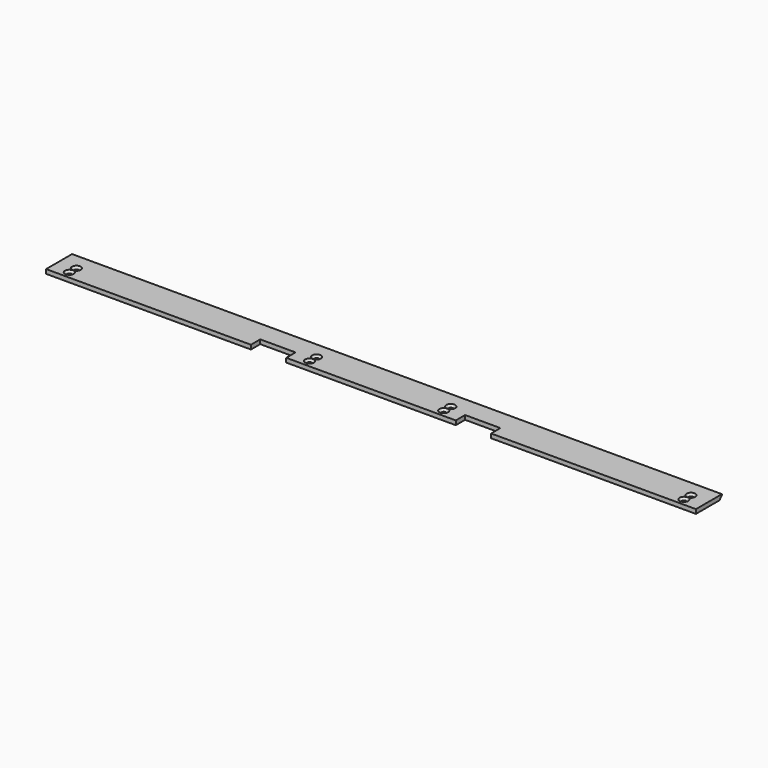
from build123d import *

# Parameters (mm, degrees)
F0_W           = 1840
F0_H           = 92
F1_DEPTH       = 6
F2_W           = 100
F2_H           = 33
F3_DEPTH       = 12.001
F5_DEPTH       = 1840.001
F7_D           = 13
F7_CSINK_D     = 25
F7_CSINK_ANGLE = 90


with BuildPart() as f1:
    # F0 (on Top) → F1 (new body, symmetric)
    with BuildSketch(Plane.XY):
        Rectangle(F0_W, F0_H)
    extrude(amount=F1_DEPTH, both=True)

    # F2 (on face) → F3 (cut, through all)
    with BuildSketch(Plane.XY.offset(6)):
        with Locations((-290, -29.5)):
            Rectangle(F2_W, F2_H)
        with Locations((290, -29.5)):
            Rectangle(F2_W, F2_H)
    extrude(amount=-F3_DEPTH, mode=Mode.SUBTRACT)

    # F4 (on face) → F5 (cut, through all)
    with BuildSketch(Plane.YZ.offset(920)):
        Polygon((46, -6), (46, 4), (37.609004, -6), align=None)
    extrude(amount=-F5_DEPTH, mode=Mode.SUBTRACT)

    # F7 (through all)
    with Locations(Plane.XY.offset(6)):
        with Locations((-870, -1), (-870, -26), (-190, -1), (-190, -26), (190, -26), (190, -1), (870, -1), (870, -26)):
            CounterSinkHole(F7_D / 2, F7_CSINK_D / 2, counter_sink_angle=F7_CSINK_ANGLE)


solid = f1.part
